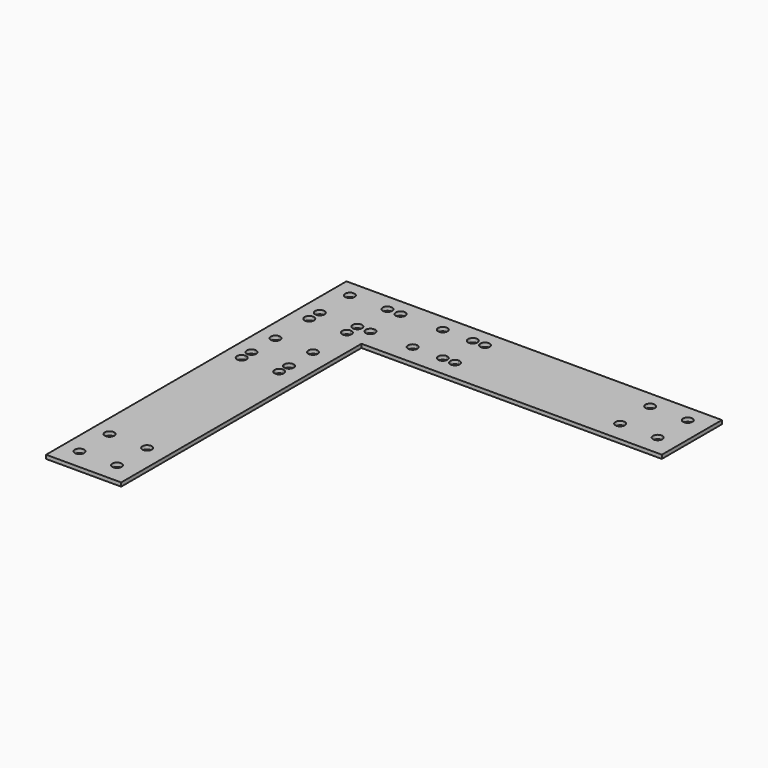
from build123d import *

# Parameters (mm, degrees)
F0_R     = 2.5
F1_DEPTH = 2


with BuildPart() as f1:
    # F0 (on Top) → F1 (new body)
    with BuildSketch(Plane.XY):
        with BuildLine():
            Line((40, 0), (0, 0))
            Line((0, 0), (0, -40))
            Line((0, -40), (9, -40))
            Line((9, -40), (9, -38.5))
            ThreePointArc((9, -38.5), (7.232233047, -34.232233047), (11.5, -36))
            Line((11.5, -36), (26.5, -36))
            ThreePointArc((26.5, -36), (27.232233047, -34.232233047), (29, -33.5))
            Line((29, -33.5), (29, -31.5))
            ThreePointArc((29, -31.5), (27.232233047, -27.232233047), (31.5, -29))
            Line((31.5, -29), (33.5, -29))
            ThreePointArc((33.5, -29), (34.232233047, -27.232233047), (36, -26.5))
            Line((36, -26.5), (36, -11.5))
            ThreePointArc((36, -11.5), (34.232233047, -7.232233047), (38.5, -9))
            Line((38.5, -9), (40, -9))
            Line((40, -9), (40, 0))
        make_face()
        with Locations((9, -29)):
            Circle(F0_R, mode=Mode.SUBTRACT)
        with Locations((9, -9)):
            Circle(F0_R, mode=Mode.SUBTRACT)
        with Locations((29, -9)):
            Circle(F0_R, mode=Mode.SUBTRACT)
        with BuildLine():
            Line((200, 0), (40, 0))
            Line((40, 0), (40, -9))
            Line((40, -9), (56, -9))
            ThreePointArc((56, -9), (58.5, -6.5), (61, -9))
            Line((61, -9), (72, -9))
            ThreePointArc((72, -9), (74.5, -6.5), (77, -9))
            Line((77, -9), (78.5, -9))
            ThreePointArc((78.5, -9), (81, -6.5), (83.5, -9))
            ThreePointArc((83.5, -9), (82.767766953, -10.767766953), (81, -11.5))
            Line((81, -11.5), (81, -26.5))
            ThreePointArc((81, -26.5), (82.767766953, -27.232233047), (83.5, -29))
            ThreePointArc((83.5, -29), (81, -31.5), (78.5, -29))
            Line((78.5, -29), (77, -29))
            ThreePointArc((77, -29), (74.5, -31.5), (72, -29))
            Line((72, -29), (61, -29))
            ThreePointArc((61, -29), (58.5, -31.5), (56, -29))
            Line((56, -29), (40, -29))
            Line((40, -29), (40, -40))
            Line((40, -40), (200, -40))
            Line((200, -40), (200, 0))
        make_face()
        with Locations((169, -29)):
            Circle(F0_R, mode=Mode.SUBTRACT)
        with Locations((189, -29)):
            Circle(F0_R, mode=Mode.SUBTRACT)
        with Locations((169, -9)):
            Circle(F0_R, mode=Mode.SUBTRACT)
        with Locations((189, -9)):
            Circle(F0_R, mode=Mode.SUBTRACT)
        with BuildLine():
            Line((9, -40), (0, -40))
            Line((0, -40), (0, -200))
            Line((0, -200), (40, -200))
            Line((40, -200), (40, -40))
            Line((40, -40), (29, -40))
            Line((29, -40), (29, -56))
            ThreePointArc((29, -56), (30.767766953, -56.732233047), (31.5, -58.5))
            ThreePointArc((31.5, -58.5), (30.767766953, -60.267766953), (29, -61))
            Line((29, -61), (29, -72))
            ThreePointArc((29, -72), (30.767766953, -72.732233047), (31.5, -74.5))
            ThreePointArc((31.5, -74.5), (30.767766953, -76.267766953), (29, -77))
            Line((29, -77), (29, -78.5))
            ThreePointArc((29, -78.5), (30.767766953, -79.232233047), (31.5, -81))
            ThreePointArc((31.5, -81), (29, -83.5), (26.5, -81))
            Line((26.5, -81), (11.5, -81))
            ThreePointArc((11.5, -81), (7.232233047, -82.767766953), (9, -78.5))
            Line((9, -78.5), (9, -77))
            ThreePointArc((9, -77), (6.5, -74.5), (9, -72))
            Line((9, -72), (9, -61))
            ThreePointArc((9, -61), (6.5, -58.5), (9, -56))
            Line((9, -56), (9, -40))
        make_face()
        with Locations((9, -189)):
            Circle(F0_R, mode=Mode.SUBTRACT)
        with Locations((29, -189)):
            Circle(F0_R, mode=Mode.SUBTRACT)
        with Locations((9, -169)):
            Circle(F0_R, mode=Mode.SUBTRACT)
        with Locations((29, -169)):
            Circle(F0_R, mode=Mode.SUBTRACT)
        with BuildLine():
            Line((40, -40), (40, -29))
            Line((40, -29), (38.5, -29))
            ThreePointArc((38.5, -29), (36, -31.5), (33.5, -29))
            Line((33.5, -29), (31.5, -29))
            ThreePointArc((31.5, -29), (30.767766953, -30.767766953), (29, -31.5))
            Line((29, -31.5), (29, -33.5))
            ThreePointArc((29, -33.5), (30.767766953, -34.232233047), (31.5, -36))
            ThreePointArc((31.5, -36), (30.767766953, -37.767766953), (29, -38.5))
            Line((29, -38.5), (29, -40))
            Line((29, -40), (40, -40))
        make_face()
        with BuildLine():
            Line((40, -29), (40, -9))
            Line((40, -9), (38.5, -9))
            ThreePointArc((38.5, -9), (37.767766953, -10.767766953), (36, -11.5))
            Line((36, -11.5), (36, -26.5))
            ThreePointArc((36, -26.5), (37.767766953, -27.232233047), (38.5, -29))
            Line((38.5, -29), (40, -29))
        make_face()
        with BuildLine():
            Line((56, -9), (40, -9))
            Line((40, -9), (40, -29))
            Line((40, -29), (56, -29))
            ThreePointArc((56, -29), (56.732233047, -27.232233047), (58.5, -26.5))
            Line((58.5, -26.5), (58.5, -11.5))
            ThreePointArc((58.5, -11.5), (56.732233047, -10.767766953), (56, -9))
        make_face()
        with BuildLine():
            Line((78.5, -9), (77, -9))
            ThreePointArc((77, -9), (76.267766953, -10.767766953), (74.5, -11.5))
            Line((74.5, -11.5), (74.5, -26.5))
            ThreePointArc((74.5, -26.5), (76.267766953, -27.232233047), (77, -29))
            Line((77, -29), (78.5, -29))
            ThreePointArc((78.5, -29), (79.232233047, -27.232233047), (81, -26.5))
            Line((81, -26.5), (81, -11.5))
            ThreePointArc((81, -11.5), (79.232233047, -10.767766953), (78.5, -9))
        make_face()
        with BuildLine():
            Line((72, -9), (61, -9))
            ThreePointArc((61, -9), (60.267766953, -10.767766953), (58.5, -11.5))
            Line((58.5, -11.5), (58.5, -26.5))
            ThreePointArc((58.5, -26.5), (60.267766953, -27.232233047), (61, -29))
            Line((61, -29), (72, -29))
            ThreePointArc((72, -29), (72.732233047, -27.232233047), (74.5, -26.5))
            Line((74.5, -26.5), (74.5, -11.5))
            ThreePointArc((74.5, -11.5), (72.732233047, -10.767766953), (72, -9))
        make_face()
        with BuildLine():
            Line((26.5, -74.5), (11.5, -74.5))
            ThreePointArc((11.5, -74.5), (10.767766953, -76.267766953), (9, -77))
            Line((9, -77), (9, -78.5))
            ThreePointArc((9, -78.5), (10.767766953, -79.232233047), (11.5, -81))
            Line((11.5, -81), (26.5, -81))
            ThreePointArc((26.5, -81), (27.232233047, -79.232233047), (29, -78.5))
            Line((29, -78.5), (29, -77))
            ThreePointArc((29, -77), (27.232233047, -76.267766953), (26.5, -74.5))
        make_face()
        with BuildLine():
            Line((26.5, -58.5), (11.5, -58.5))
            ThreePointArc((11.5, -58.5), (10.767766953, -60.267766953), (9, -61))
            Line((9, -61), (9, -72))
            ThreePointArc((9, -72), (10.767766953, -72.732233047), (11.5, -74.5))
            Line((11.5, -74.5), (26.5, -74.5))
            ThreePointArc((26.5, -74.5), (27.232233047, -72.732233047), (29, -72))
            Line((29, -72), (29, -61))
            ThreePointArc((29, -61), (27.232233047, -60.267766953), (26.5, -58.5))
        make_face()
        with BuildLine():
            Line((29, -40), (9, -40))
            Line((9, -40), (9, -56))
            ThreePointArc((9, -56), (10.767766953, -56.732233047), (11.5, -58.5))
            Line((11.5, -58.5), (26.5, -58.5))
            ThreePointArc((26.5, -58.5), (27.232233047, -56.732233047), (29, -56))
            Line((29, -56), (29, -40))
        make_face()
        with BuildLine():
            Line((9, -38.5), (9, -40))
            Line((9, -40), (29, -40))
            Line((29, -40), (29, -38.5))
            ThreePointArc((29, -38.5), (27.232233047, -37.767766953), (26.5, -36))
            Line((26.5, -36), (11.5, -36))
            ThreePointArc((11.5, -36), (10.767766953, -37.767766953), (9, -38.5))
        make_face()
    extrude(amount=F1_DEPTH)


solid = f1.part
